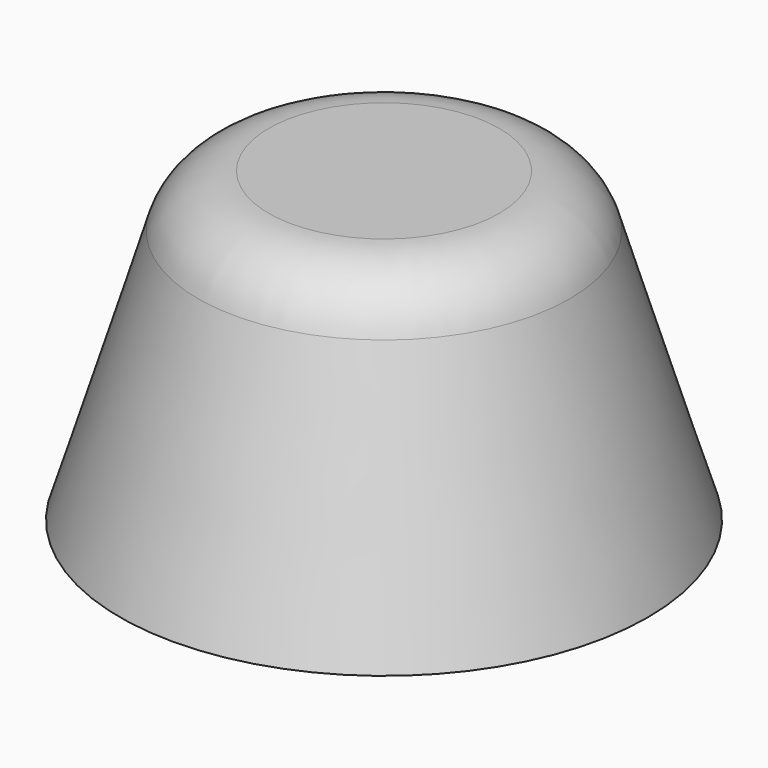
from build123d import *

# Parameters (mm, degrees)
F2_R = 5


with BuildPart() as f1:
    # F0 (on Front) → F1 (revolve)
    with BuildSketch(Plane.XZ):
        Polygon((15.675, -8.611053), (17.875, -8.611053), (11.5, 12.188947), (0, 12.188947), (0, 9.988947), (9.873268, 9.988947), (14.501273, -5.111053), (15.581036, -5.111053), (15.581036, -7.111053), (15.081036, -7.111053), align=None)
    revolve(axis=Axis((0, 0, 8.77352), (0, 0, 1)))

    # F2
    f2_edges = [f1.edges().sort_by_distance(p)[0] for p in [
        (-11.5, 0, 12.188947),
        (-9.873268, 0, 9.988947),
    ]]
    fillet(f2_edges, radius=F2_R)


solid = f1.part
